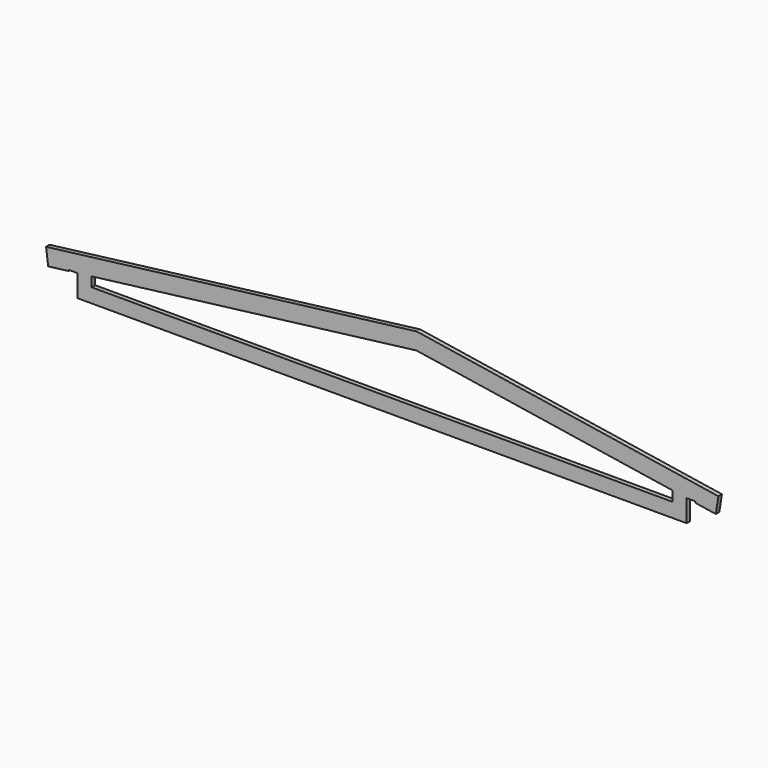
from build123d import *

# Parameters (mm, degrees)
F1_DEPTH = 45


with BuildPart() as f1:
    # F0 (on Front) → F1 (new body)
    with BuildSketch(Plane.XZ):
        Polygon((-3100, 225), (-3100, 0), (3100, 0), (3100, 225), (3190, 225), (3190, 210.980805), (3396.425332, 178.826171), (3422.590502, 346.800526), (352.660195, 825), (-3418.660869, 356.739328), (-3397.71391, 188.034779), (-3190, 213.825279), (-3190, 225), align=None)
        Polygon((-2955, 145), (-2955, 243.003717), (350, 653.364302), (2955, 247.586481), (2955, 145), align=None, mode=Mode.SUBTRACT)
    extrude(amount=F1_DEPTH)


solid = f1.part
